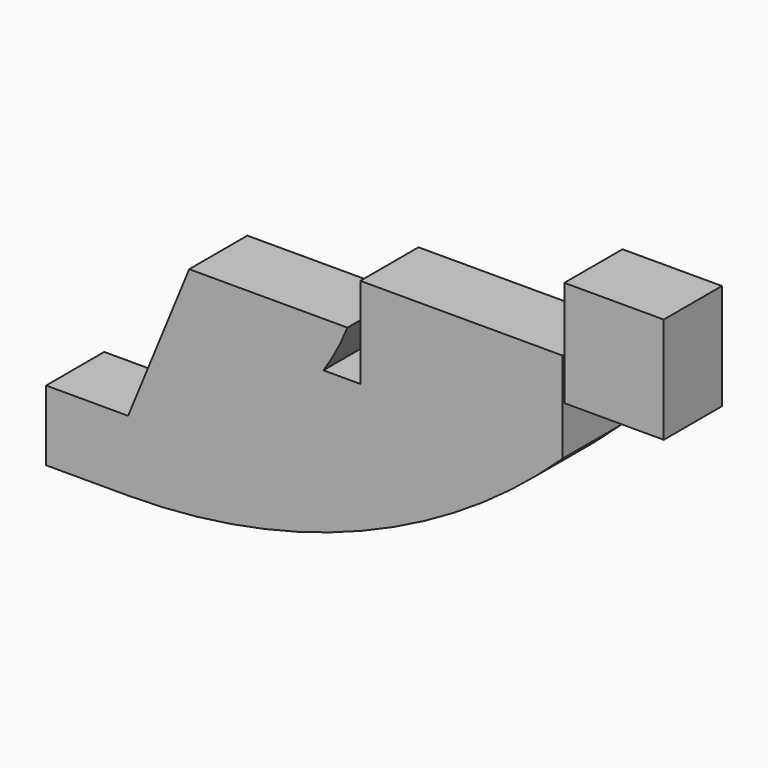
from build123d import *

# Parameters (mm, degrees)
F0_W     = 45.497424
F0_H     = 48.456331
F0_W_2   = 37.538488
F0_H_2   = 32.136148
F1_DEPTH = 33.274


with BuildPart() as f1:
    # F0 (on Front) → F1 (new body)
    with BuildSketch(Plane.XZ):
        with BuildLine():
            ThreePointArc((-152.521673, -68.166488), (-101.942071, -55.58334), (-63.154356, -20.767469))
            Line((-63.154356, -20.767469), (-124.566873, -20.767469))
            Line((-124.566873, -20.767469), (-152.521673, -68.166488))
        make_face()
        with BuildLine():
            Line((46.262098, -20.767469), (-46.262098, -20.767469))
            Line((-46.262098, -20.767469), (-63.154356, -20.767469))
            ThreePointArc((-63.154356, -20.767469), (-101.942071, -55.58334), (-152.521673, -68.166488))
            Line((-152.521673, -68.166488), (-152.521673, -100.302636))
            ThreePointArc((-152.521673, -100.302636), (-45.469314, -79.681021), (46.262098, -20.767469))
        make_face()
        Polygon((-46.262098, 0), (-46.262098, -20.767469), (46.262098, -20.767469), (46.262098, 1.866868), (46.262098, 20.767469), (-46.262098, 20.767469), align=None)
        with BuildLine():
            Line((-124.566873, -20.767469), (-63.154356, -20.767469))
            ThreePointArc((-63.154356, -20.767469), (-57.096445, -10.683392), (-52.17181, 0))
            Line((-52.17181, 0), (-124.566873, 0))
            Line((-124.566873, 0), (-152.521673, -68.166488))
            Line((-152.521673, -68.166488), (-124.566873, -20.767469))
        make_face()
        with Locations((69.840045, 26.095033)):
            Rectangle(F0_W, F0_H)
        with Locations((-171.290917, -84.234562)):
            Rectangle(F0_W_2, F0_H_2)
    extrude(amount=F1_DEPTH)


solid = f1.part
